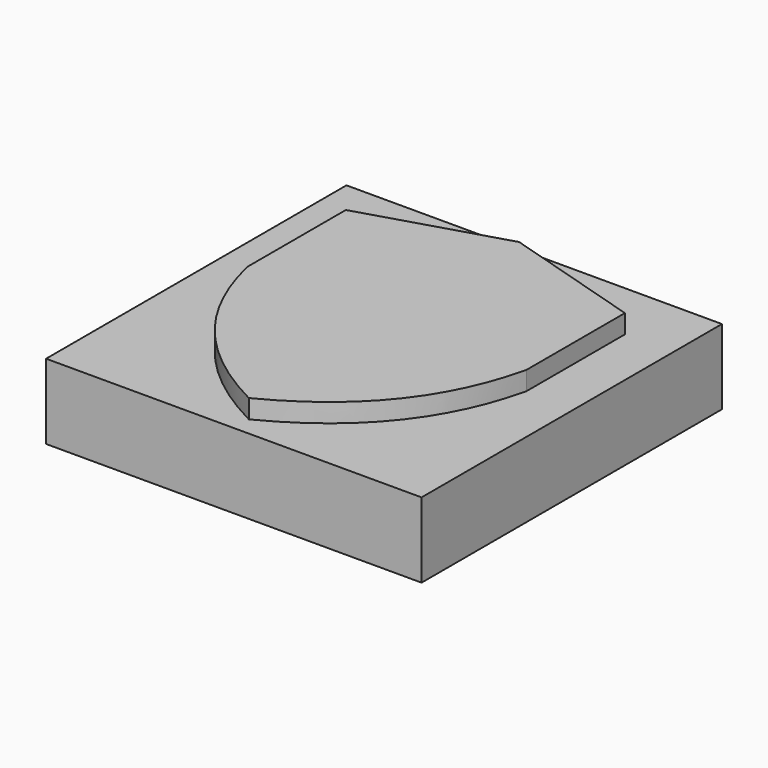
from build123d import *

# Parameters (mm, degrees)
F0_W     = 20
F0_H     = 20
F1_DEPTH = 4
F2_DEPTH = 5
F3_DEPTH = 5


with BuildPart() as f1:
    # F0 (on Top) → F1 (new body)
    with BuildSketch(Plane.XY):
        with Locations((-40.693533, -4.456982)):
            Rectangle(F0_W, F0_H)
        with BuildLine():
            Line((-48.125807, -4.26834), (-48.125807, 2.291039))
            Line((-48.125807, 2.291039), (-40.693533, 4.543018))
            Line((-40.693533, 4.543018), (-33.261258, 2.291039))
            Line((-33.261258, 2.291039), (-33.261258, -4.26834))
            add(Edge.make_bspline(
                [(-33.261258, -4.26834), (-34.245458, -8.461894), (-36.694674, -11.414499), (-40.693533, -13.456982)],
                knots=[0, 0, 0, 0, 11.8182, 11.8182, 11.8182, 11.8182], degree=3))
            add(Edge.make_bspline(
                [(-48.125807, -4.26834), (-47.141608, -8.461894), (-44.692392, -11.414499), (-40.693533, -13.456982)],
                knots=[0, 0, 0, 0, 11.8182, 11.8182, 11.8182, 11.8182], degree=3))
        make_face(mode=Mode.SUBTRACT)
    extrude(amount=F1_DEPTH)

    # F0 (on Top) → F2 (join)
    with BuildSketch(Plane.XY):
        with BuildLine():
            Line((-40.693533, 4.543018), (-48.125807, 2.291039))
            Line((-48.125807, 2.291039), (-48.125807, -4.26834))
            add(Edge.make_bspline(
                [(-48.125807, -4.26834), (-47.141608, -8.461894), (-44.692392, -11.414499), (-40.693533, -13.456982)],
                knots=[0, 0, 0, 0, 11.8182, 11.8182, 11.8182, 11.8182], degree=3))
            add(Edge.make_bspline(
                [(-33.261258, -4.26834), (-34.245458, -8.461894), (-36.694674, -11.414499), (-40.693533, -13.456982)],
                knots=[0, 0, 0, 0, 11.8182, 11.8182, 11.8182, 11.8182], degree=3))
            Line((-33.261258, -4.26834), (-33.261258, 2.291039))
            Line((-33.261258, 2.291039), (-40.693533, 4.543018))
        make_face()
        with BuildLine():
            Line((-40.693533, 3.262941), (-40.693533, -12.135648))
            add(Edge.make_bspline(
                [(-40.693533, -12.135648), (-44.436548, -10.041109), (-47.01202, -6.495423), (-47.08004, -3.659984)],
                knots=[0, 0, 0, 0, 10.612463, 10.612463, 10.612463, 10.612463], degree=3))
            Line((-47.08004, -3.659984), (-47.08004, 1.440438))
            Line((-47.08004, 1.440438), (-40.693533, 3.340149))
            Line((-40.693533, 3.340149), (-40.693533, 3.262941))
        make_face(mode=Mode.SUBTRACT)
    extrude(amount=F2_DEPTH)

    # F0 (on Top) → F3 (join)
    with BuildSketch(Plane.XY):
        with BuildLine():
            add(Edge.make_bspline(
                [(-40.693533, -12.135648), (-44.436548, -10.041109), (-47.01202, -6.495423), (-47.08004, -3.659984)],
                knots=[0, 0, 0, 0, 10.612463, 10.612463, 10.612463, 10.612463], degree=3))
            Line((-40.693533, -12.135648), (-40.693533, 3.262941))
            Line((-40.693533, 3.262941), (-40.693533, 3.340149))
            Line((-40.693533, 3.340149), (-47.08004, 1.440438))
            Line((-47.08004, 1.440438), (-47.08004, -3.659984))
        make_face()
    extrude(amount=F3_DEPTH)


solid = f1.part
